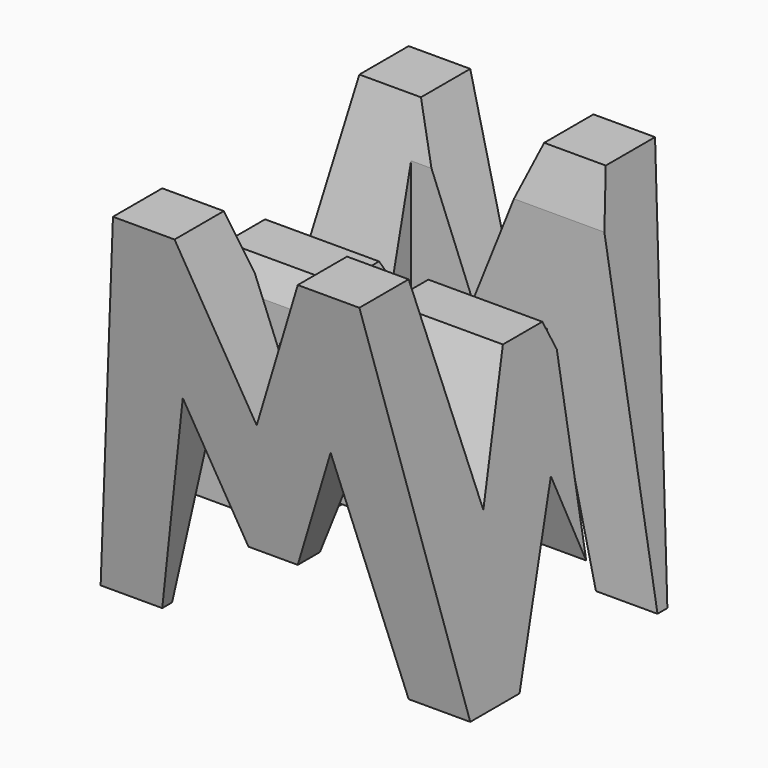
from build123d import *

# Parameters (mm, degrees)
F0_W      = 38.1
F0_H      = 38.1
F1_DEPTH  = 38.1
F6_DEPTH  = 38.1
F8_DEPTH  = 38.1
F9_W      = 25.4
F9_H      = 7.62
F10_DEPTH = 38.1


with BuildPart() as f1:
    # F0 (on Front) → F1 (new body)
    with BuildSketch(Plane.XZ):
        with Locations((19.05, 19.05)):
            Rectangle(F0_W, F0_H)
    extrude(amount=F1_DEPTH)

    # F5 (on offset) → F6 (cut)
    with BuildSketch(Plane.YZ.offset(38.1)):
        Polygon((-11.43, 17.112495), (-6.35, 38.1), (-31.75, 38.1), (-26.67, 16.286777), (-21.59, 28.575), (-16.51, 28.575), align=None)
        Polygon((-31.75, 0), (-38.1, 38.1), (-38.1, 0), align=None)
        Polygon((-25.4, 0), (-12.7, 0), (-18.055946, 15.875), align=None)
        Polygon((-6.35, 0), (0, 0), (0, 38.1), align=None)
    extrude(amount=-F6_DEPTH, mode=Mode.SUBTRACT)

    # F7 (on offset) → F8 (cut)
    with BuildSketch(Plane.XZ.offset(38.1)):
        Polygon((11.43, 22.225), (6.35, 0), (31.75, 0), (26.67, 22.225), (21.59, 9.525), (16.51, 9.525), align=None)
        Polygon((0, 38.1), (0, 0), (6.35, 38.1), align=None)
        Polygon((25.4, 38.1), (12.7, 38.1), (19.05, 22.225), align=None)
        Polygon((31.75, 38.1), (38.1, 0), (38.1, 38.1), align=None)
    extrude(amount=-F8_DEPTH, mode=Mode.SUBTRACT)

    # F9 (on offset) → F10 (cut)
    with BuildSketch(Plane.XY.offset(38.1)):
        with Locations((25.4, -11.43)):
            Rectangle(F9_W, F9_H)
        with Locations((12.7, -26.67)):
            Rectangle(F9_W, F9_H)
    extrude(amount=-F10_DEPTH, mode=Mode.SUBTRACT)


solid = f1.part
